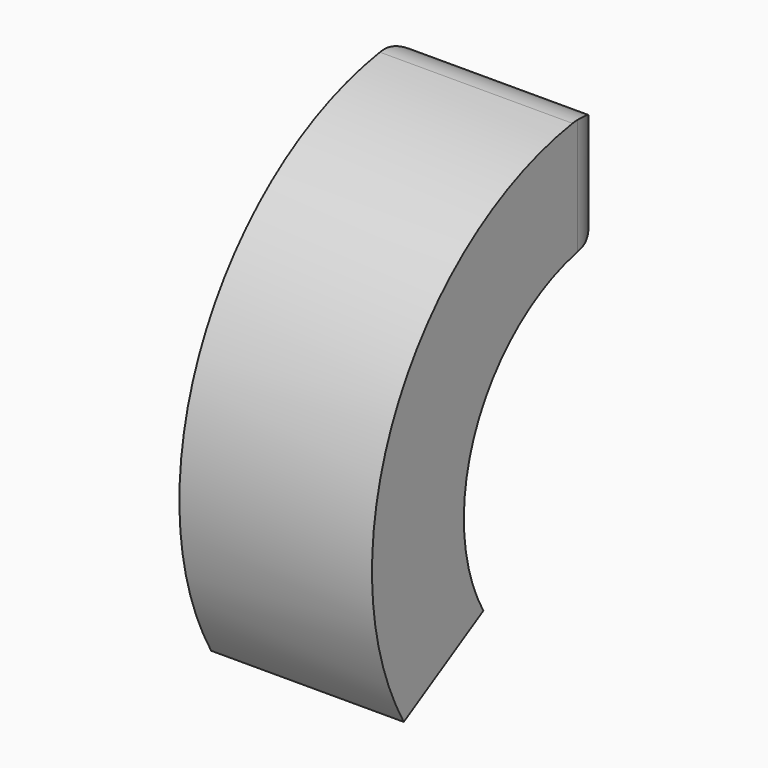
from build123d import *

# Parameters (mm, degrees)
F0_W     = 48.484702
F0_H     = 28.910136
F1_ANGLE = 120
F2_R     = 10


with BuildPart() as f1:
    # F0 (on Front) → F1 (revolve)
    with BuildSketch(Plane.XZ):
        Rectangle(F0_W, F0_H)
    revolve(axis=Axis((-3.22037, 0, -60.188446), (1, 0, 0)), revolution_arc=F1_ANGLE)

    # F2
    f2_edges = [f1.edges().sort_by_distance(p)[0] for p in [
        (24.242351, 0, 0),
        (0, 0, 14.455068),
        (-24.242351, 0, 0),
        (0, 0, -14.455068),
    ]]
    fillet(f2_edges, radius=F2_R)


solid = f1.part
